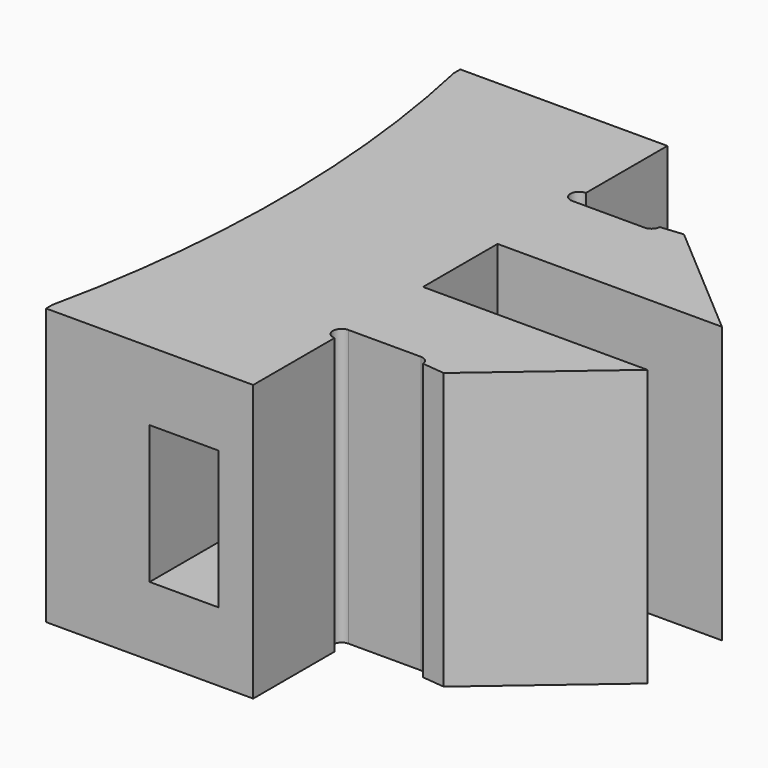
from build123d import *

# Parameters (mm, degrees)
PAD_DEPTH       = 8
SKETCH001_W     = 6
SKETCH001_H     = 15
PAD001_DEPTH    = 8
SKETCH002_R     = 34.097943
POCKET_DEPTH    = 8.001
SKETCH003_W     = 2
SKETCH003_H     = 4
POCKET001_DEPTH = 15.001
POCKET002_DEPTH = 8.001


with BuildPart() as part:
    # Sketch → Pad (new body)
    with BuildSketch(Plane.XY):
        Polygon((6.5, 1.35), (0, 1.35), (0, -1.35), (6.5, -1.35), (3, -4.35), (0, -4.05), (-6, -4.05), (-6, 4.05), (0, 4.05), (3, 4.35), align=None)
    extrude(amount=PAD_DEPTH)

    # Sketch001 (on Face12 of Pad) → Pad001 (join)
    with BuildSketch(Plane.XY.offset(8)):
        with Locations((-3, 0)):
            Rectangle(SKETCH001_W, SKETCH001_H)
    extrude(amount=-PAD001_DEPTH)

    # Sketch002 (on Face13 of Pad001) → Pocket (cut, through all)
    with BuildSketch(Plane.XY.offset(8)):
        with Locations((-39.312778, 0)):
            Circle(SKETCH002_R)
    extrude(amount=-POCKET_DEPTH, mode=Mode.SUBTRACT)

    # Sketch003 (on Face15 of Pocket) → Pocket001 (cut, through all)
    with BuildSketch(Plane(origin=(0, 7.5, 0), x_dir=(-1, 0, 0), z_dir=(0, 1, 0))):
        with Locations((2, 4)):
            Rectangle(SKETCH003_W, SKETCH003_H)
    extrude(amount=-POCKET001_DEPTH, mode=Mode.SUBTRACT)

    # Sketch004 (on Face3 of Pocket001) → Pocket002 (cut, through all)
    with BuildSketch(Plane.XY.offset(8)):
        with BuildLine():
            ThreePointArc((0, 4.55), (-0.25, 4.3), (0, 4.05))
            Line((0, 4.05), (2.1, 4.05))
            ThreePointArc((2.1, 4.05), (2.35, 4.3), (2.1, 4.55))
            Line((0, 4.55), (2.1, 4.55))
        make_face()
        with BuildLine():
            ThreePointArc((0, -4.05), (-0.25, -4.3), (0, -4.55))
            Line((0, -4.55), (2.1, -4.55))
            ThreePointArc((2.1, -4.55), (2.35, -4.3), (2.1, -4.05))
            Line((0, -4.05), (2.1, -4.05))
        make_face()
    extrude(amount=-POCKET002_DEPTH, mode=Mode.SUBTRACT)


solid = part.part
